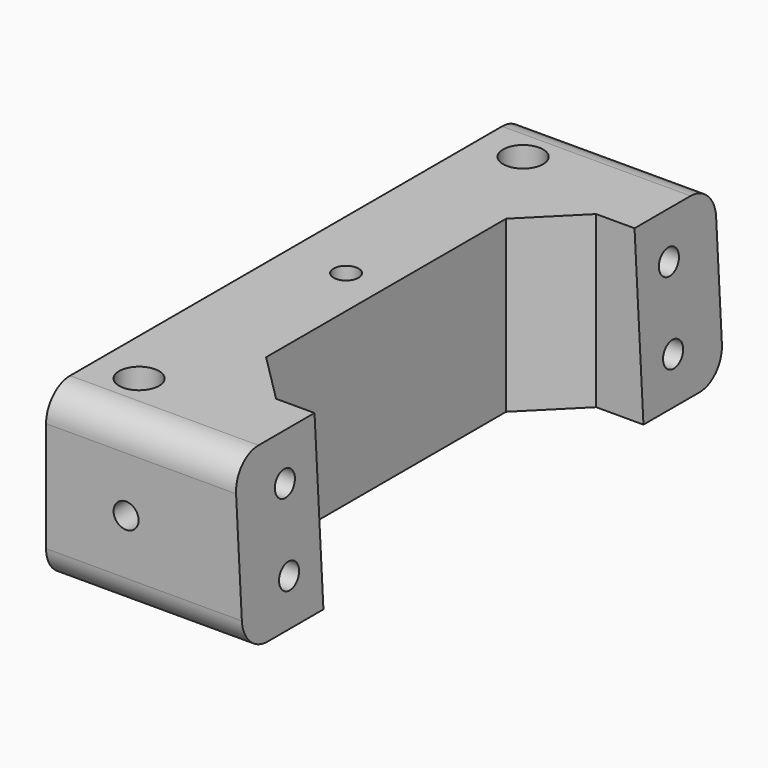
from build123d import *

# Parameters (mm, degrees)
CYLINDER188_R          = 2
CYLINDER188_DEPTH      = 8
CYLINDER189_R          = 2
CYLINDER189_DEPTH      = 8
CYLINDER187_R          = 1.25
CYLINDER187_DEPTH      = 20
BOX018_W               = 3
BOX018_H               = 4
BOX018_DEPTH           = 5
BOX019_W               = 3
BOX019_H               = 4
BOX019_DEPTH           = 5
CYLINDER041_R          = 1.25
CYLINDER041_DEPTH      = 15
CYLINDER040_R          = 1.25
CYLINDER040_DEPTH      = 15
CYLINDER039_R          = 1.25
CYLINDER039_DEPTH      = 15
CYLINDER038_R          = 1.25
CYLINDER038_DEPTH      = 15
CYLINDER037_R          = 1.25
CYLINDER037_DEPTH      = 15
CYLINDER036_R          = 1.25
CYLINDER036_DEPTH      = 15
BOX015_W               = 10
BOX015_H               = 62
BOX015_DEPTH           = 32
BOX015_PLACEMENT_ANGLE = 3
BOX016_W               = 20
BOX016_H               = 10
BOX016_DEPTH           = 17
BOX017_W               = 10
BOX017_H               = 40
BOX017_DEPTH           = 17
BOX014_W               = 10
BOX014_H               = 62
BOX014_DEPTH           = 32
BOX014_PLACEMENT_ANGLE = 3
BOX013_W               = 20
BOX013_H               = 10
BOX013_DEPTH           = 17
CHAMFER_SIZE           = 5
CHAMFER001_SIZE        = 5
FILLET007_R            = 3
FILLET008_R            = 3


with BuildPart() as cylinder188:
    # Cylinder188 → Cylinder188 (new body)
    with BuildSketch(Plane(origin=(584, 7, 10.5), x_dir=(1, 0, 0), z_dir=(0, 0, 1))):
        Circle(CYLINDER188_R)
    extrude(amount=CYLINDER188_DEPTH)


with BuildPart() as fusion159:
    # Cylinder189 → Cylinder189 (new body)
    with BuildSketch(Plane(origin=(584, 55, 10.5), x_dir=(1, 0, 0), z_dir=(0, 0, 1))):
        Circle(CYLINDER189_R)
    extrude(amount=CYLINDER189_DEPTH)

    # Fusion159: union Cylinder188
    add(cylinder188.part)


with BuildPart() as fusion159_1:
    # Fusion159 placement: moved
    add(fusion159.part.moved(Location((0.5, 0, 0))))


with BuildPart() as cylinder187:
    # Cylinder187 → Cylinder187 (new body)
    with BuildSketch(Plane(origin=(586, 31, 1.5), x_dir=(1, 0, 0), z_dir=(0, 0, 1))):
        Circle(CYLINDER187_R)
    extrude(amount=CYLINDER187_DEPTH)


with BuildPart() as box018:
    # Box018 → Box018 (new body)
    with BuildSketch(Plane(origin=(580, 4, 1.5), x_dir=(1, 0, 0), z_dir=(0, 0, 1))):
        with Locations((1.5, 2)):
            Rectangle(BOX018_W, BOX018_H)
    extrude(amount=BOX018_DEPTH)


with BuildPart() as fusion032:
    # Box019 → Box019 (new body)
    with BuildSketch(Plane(origin=(580, 54, 1.5), x_dir=(1, 0, 0), z_dir=(0, 0, 1))):
        with Locations((1.5, 2)):
            Rectangle(BOX019_W, BOX019_H)
    extrude(amount=BOX019_DEPTH)

    # Fusion032: union Box018
    add(box018.part)


with BuildPart() as cylinder041:
    # Cylinder041 → Cylinder041 (new body)
    with BuildSketch(Plane(origin=(585, 7, 6), x_dir=(0, 0, -1), z_dir=(1, 0, 0))):
        Circle(CYLINDER041_R)
    extrude(amount=CYLINDER041_DEPTH)


with BuildPart() as fusion030:
    # Cylinder040 → Cylinder040 (new body)
    with BuildSketch(Plane(origin=(585, 7, 14), x_dir=(0, 0, -1), z_dir=(1, 0, 0))):
        Circle(CYLINDER040_R)
    extrude(amount=CYLINDER040_DEPTH)

    # Fusion030: union Cylinder041
    add(cylinder041.part)


with BuildPart() as fusion030_1:
    # Fusion030 placement: moved
    add(fusion030.part.moved(Location((0, 48, 0))))


with BuildPart() as cylinder039:
    # Cylinder039 → Cylinder039 (new body)
    with BuildSketch(Plane(origin=(585, 7, 6), x_dir=(0, 0, -1), z_dir=(1, 0, 0))):
        Circle(CYLINDER039_R)
    extrude(amount=CYLINDER039_DEPTH)


with BuildPart() as fusion031:
    # Cylinder038 → Cylinder038 (new body)
    with BuildSketch(Plane(origin=(585, 7, 14), x_dir=(0, 0, -1), z_dir=(1, 0, 0))):
        Circle(CYLINDER038_R)
    extrude(amount=CYLINDER038_DEPTH)

    # Fusion029: union Cylinder039
    add(cylinder039.part)

    # Fusion031: union Fusion030
    add(fusion030_1.part)


with BuildPart() as cylinder037:
    # Cylinder037 → Cylinder037 (new body)
    with BuildSketch(Plane(origin=(588, 61, 10), x_dir=(1, 0, 0), z_dir=(0, -1, 0))):
        Circle(CYLINDER037_R)
    extrude(amount=CYLINDER037_DEPTH)


with BuildPart() as fusion028:
    # Cylinder036 → Cylinder036 (new body)
    with BuildSketch(Plane(origin=(588, 16, 10), x_dir=(1, 0, 0), z_dir=(0, -1, 0))):
        Circle(CYLINDER036_R)
    extrude(amount=CYLINDER036_DEPTH)

    # Fusion028: union Cylinder037
    add(cylinder037.part)


with BuildPart() as box015:
    # Box015 → Box015 (new body)
    with BuildSketch(Plane.XY):
        with Locations((5, 31)):
            Rectangle(BOX015_W, BOX015_H)
    extrude(amount=BOX015_DEPTH)


with BuildPart() as box015_1:
    # Box015 placement: moved
    add(box015.part.moved(Location((600, 0, -3.6))).rotate(Axis((600, 0, -3.6), (0, -1, 0)), BOX015_PLACEMENT_ANGLE))


with BuildPart() as cut012:
    # Box016 → Box016 (new body)
    with BuildSketch(Plane(origin=(580, 0, 1.5), x_dir=(1, 0, 0), z_dir=(0, 0, 1))):
        with Locations((10, 5)):
            Rectangle(BOX016_W, BOX016_H)
    extrude(amount=BOX016_DEPTH)

    # Cut012: cut Box015
    add(box015_1.part, mode=Mode.SUBTRACT)


with BuildPart() as cut012_1:
    # Cut012 placement: moved
    add(cut012.part.moved(Location((0, 51, 0))))


with BuildPart() as box017:
    # Box017 → Box017 (new body)
    with BuildSketch(Plane(origin=(580, 11, 1.5), x_dir=(1, 0, 0), z_dir=(0, 0, 1))):
        with Locations((5, 20)):
            Rectangle(BOX017_W, BOX017_H)
    extrude(amount=BOX017_DEPTH)


with BuildPart() as box014:
    # Box014 → Box014 (new body)
    with BuildSketch(Plane.XY):
        with Locations((5, 31)):
            Rectangle(BOX014_W, BOX014_H)
    extrude(amount=BOX014_DEPTH)


with BuildPart() as box014_1:
    # Box014 placement: moved
    add(box014.part.moved(Location((600, 0, -3.6))).rotate(Axis((600, 0, -3.6), (0, -1, 0)), BOX014_PLACEMENT_ANGLE))


with BuildPart() as rear_cross_member:
    # Box013 → Box013 (new body)
    with BuildSketch(Plane(origin=(580, 0, 1.5), x_dir=(1, 0, 0), z_dir=(0, 0, 1))):
        with Locations((10, 5)):
            Rectangle(BOX013_W, BOX013_H)
    extrude(amount=BOX013_DEPTH)

    # Cut011: cut Box014
    add(box014_1.part, mode=Mode.SUBTRACT)


with BuildPart() as rear_cross_member_1:
    # Cut011 placement: moved
    add(rear_cross_member.part.moved(Location((0, 1, 0))))

    # Fusion022: union Cut012, Box017
    add(cut012_1.part)
    add(box017.part)

    # Chamfer
    chamfer_edges = [rear_cross_member_1.edges().sort_by_distance(p)[0] for p in [
        (590, 11, 10),
    ]]
    chamfer(chamfer_edges, length=CHAMFER_SIZE)

    # Chamfer001
    chamfer001_edges = [rear_cross_member_1.edges().sort_by_distance(p)[0] for p in [
        (590, 51, 10),
    ]]
    chamfer(chamfer001_edges, length=CHAMFER001_SIZE)

    # Fillet007
    fillet007_edges = [rear_cross_member_1.edges().sort_by_distance(p)[0] for p in [
        (589.86636, 61, 1.5),
        (589.420894, 61, 18.5),
    ]]
    fillet(fillet007_edges, radius=FILLET007_R)

    # Fillet008
    fillet008_edges = [rear_cross_member_1.edges().sort_by_distance(p)[0] for p in [
        (589.86636, 1, 1.5),
        (589.420894, 1, 18.5),
    ]]
    fillet(fillet008_edges, radius=FILLET008_R)

    # Cut015: cut Fusion028
    add(fusion028.part, mode=Mode.SUBTRACT)

    # Cut016: cut Fusion031
    add(fusion031.part, mode=Mode.SUBTRACT)

    # Cut017: cut Fusion032
    add(fusion032.part, mode=Mode.SUBTRACT)

    # Cut120: cut Cylinder187
    add(cylinder187.part, mode=Mode.SUBTRACT)

    # Cut121: cut Fusion159
    add(fusion159_1.part, mode=Mode.SUBTRACT)


solid = rear_cross_member_1.part
